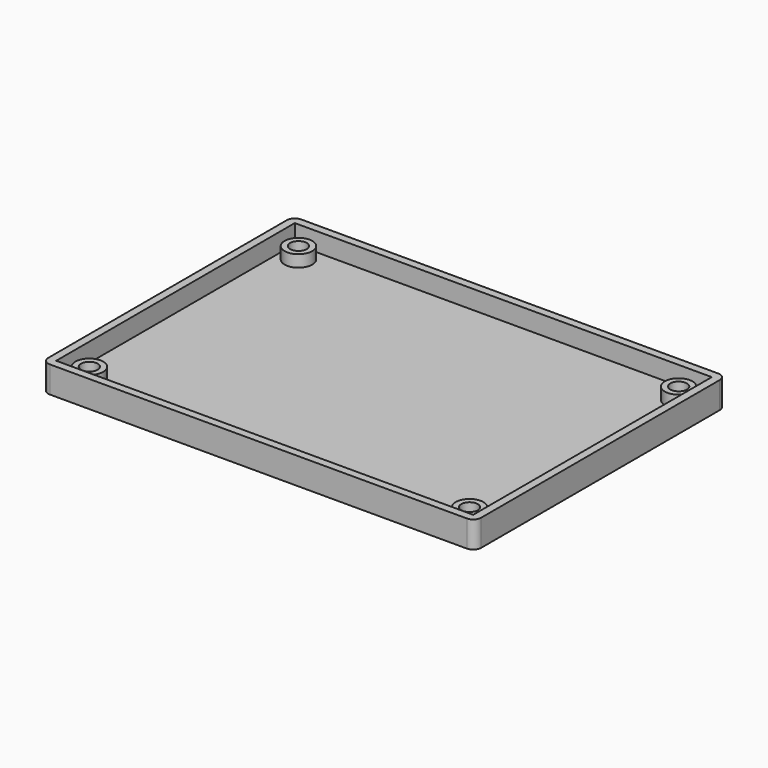
from build123d import *

# Parameters (mm, degrees)
F0_W     = 105.3
F0_H     = 75.3
F1_DEPTH = 2
F2_DEPTH = 6.7
F3_R     = 3.5
F3_R_2   = 2.1
F4_DEPTH = 3
F5_DEPTH = 25


with BuildPart() as f1:
    # F0 (on Top) → F1 (new body)
    with BuildSketch(Plane.XY):
        with BuildLine():
            Line((52.65, 39.65), (-52.65, 39.65))
            ThreePointArc((-52.65, 39.65), (-54.0642135624, 39.0642135624), (-54.65, 37.65))
            Line((-54.65, 37.65), (-54.65, -37.65))
            ThreePointArc((-54.65, -37.65), (-54.0642135624, -39.0642135624), (-52.65, -39.65))
            Line((-52.65, -39.65), (52.65, -39.65))
            ThreePointArc((52.65, -39.65), (54.0642135624, -39.0642135624), (54.65, -37.65))
            Line((54.65, -37.65), (54.65, 37.65))
            ThreePointArc((54.65, 37.65), (54.0642135624, 39.0642135624), (52.65, 39.65))
        make_face()
        Rectangle(F0_W, F0_H, mode=Mode.SUBTRACT)
        Rectangle(F0_W, F0_H)
    extrude(amount=F1_DEPTH)

    # F0 (on Top) → F2 (join)
    with BuildSketch(Plane.XY):
        with BuildLine():
            Line((52.65, 39.65), (-52.65, 39.65))
            ThreePointArc((-52.65, 39.65), (-54.0642135624, 39.0642135624), (-54.65, 37.65))
            Line((-54.65, 37.65), (-54.65, -37.65))
            ThreePointArc((-54.65, -37.65), (-54.0642135624, -39.0642135624), (-52.65, -39.65))
            Line((-52.65, -39.65), (52.65, -39.65))
            ThreePointArc((52.65, -39.65), (54.0642135624, -39.0642135624), (54.65, -37.65))
            Line((54.65, -37.65), (54.65, 37.65))
            ThreePointArc((54.65, 37.65), (54.0642135624, 39.0642135624), (52.65, 39.65))
        make_face()
        Rectangle(F0_W, F0_H, mode=Mode.SUBTRACT)
    extrude(amount=F2_DEPTH)

    # F3 (on face) → F4 (join)
    with BuildSketch(Plane.XY.offset(2)):
        with Locations((-48, 33)):
            Circle(F3_R)
        with Locations((-48, 33)):
            Circle(F3_R_2, mode=Mode.SUBTRACT)
        with Locations((48, 33)):
            Circle(F3_R)
        with Locations((48, 33)):
            Circle(F3_R_2, mode=Mode.SUBTRACT)
        with Locations((48, -33)):
            Circle(F3_R)
        with Locations((48, -33)):
            Circle(F3_R_2, mode=Mode.SUBTRACT)
        with Locations((-48, -33)):
            Circle(F3_R)
        with Locations((-48, -33)):
            Circle(F3_R_2, mode=Mode.SUBTRACT)
    extrude(amount=F4_DEPTH)

    # F5 (cut): faces of the model
    f5_faces = [f1.faces().sort_by_distance(p)[0] for p in [
        (-48, 33, 2),
        (48, 33, 2),
        (48, -33, 2),
        (-48, -33, 2),
    ]]
    extrude(f5_faces, amount=-F5_DEPTH, mode=Mode.SUBTRACT)


solid = f1.part
